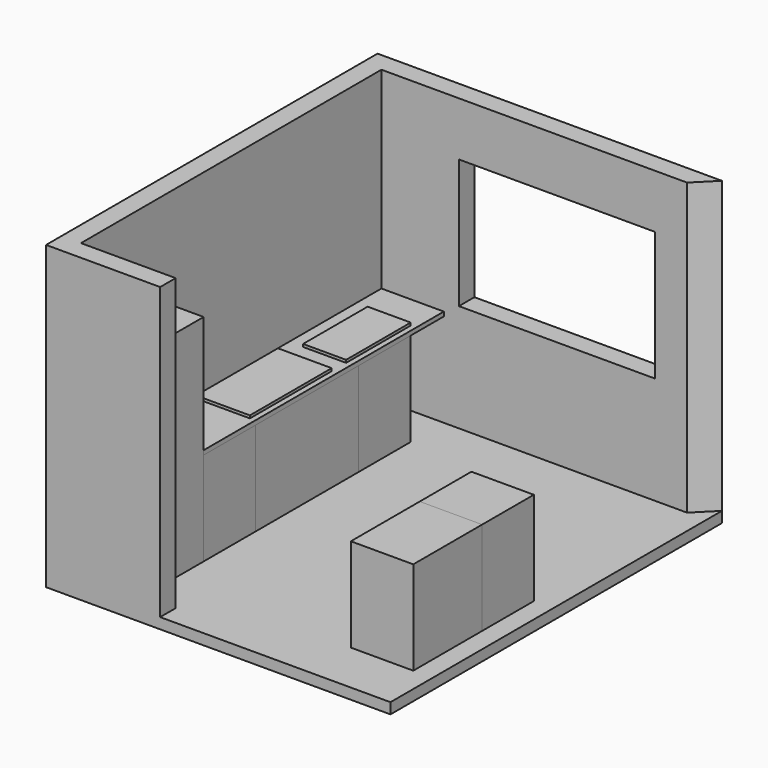
from build123d import *

# Parameters (mm, degrees)
F1_DEPTH  = 100
F2_DEPTH  = 2700
F3_W      = 580
F3_H      = 600
F4_DEPTH  = 2000
F5_DEPTH  = 870
F3_H_2    = 1200
F6_DEPTH  = 870
F7_DEPTH  = 870
F8_W      = 580
F8_H      = 990
F8_H_2    = 1200
F8_H_3    = 600
F9_DEPTH  = 40
F10_W     = 400
F10_H     = 67.5
F10_H_2   = 600
F10_H_3   = 82.5
F11_DEPTH = 25
F12_W     = 500
F12_H     = 950
F13_DEPTH = 25
F14_W     = 580
F14_H     = 800
F15_DEPTH = 870
F14_H_2   = 600
F16_DEPTH = 870
F17_W     = 1820
F17_H     = 1200
F18_DEPTH = 180.001


with BuildPart() as f1:
    # F0 (on Top) → F1 (new body)
    with BuildSketch(Plane.XY):
        Polygon((880, 0), (0, 0), (0, 3490), (2840, 3490), (3020, 3670), (-180, 3670), (-180, -180), (880, -180), align=None)
        Polygon((0, 3490), (0, 0), (880, 0), (2840, 0), (2840, 3490), align=None)
        Polygon((2840, 0), (880, 0), (880, -180), (3020, -180), (3020, 3670), (2840, 3490), align=None)
    extrude(amount=-F1_DEPTH)

    # F0 (on Top) → F2 (join)
    with BuildSketch(Plane.XY):
        Polygon((880, 0), (0, 0), (0, 3490), (2840, 3490), (3020, 3670), (-180, 3670), (-180, -180), (880, -180), align=None)
    extrude(amount=F2_DEPTH)

    # F17 (on face) → F18 (cut, through all)
    with BuildSketch(Plane.XZ.offset(-3490)):
        with Locations((1630, 1600)):
            Rectangle(F17_W, F17_H)
    extrude(amount=-F18_DEPTH, mode=Mode.SUBTRACT)


with BuildPart() as f4:
    # F3 (on face) → F4 (new body)
    with BuildSketch(Plane.XY):
        with Locations((290, 400)):
            Rectangle(F3_W, F3_H)
    extrude(amount=F4_DEPTH)


with BuildPart() as f5:
    # F3 (on face) → F5 (new body)
    with BuildSketch(Plane.XY):
        with Locations((290, 1000)):
            Rectangle(F3_W, F3_H)
    extrude(amount=F5_DEPTH)


with BuildPart() as f6:
    # F3 (on face) → F6 (new body)
    with BuildSketch(Plane.XY):
        with Locations((290, 1900)):
            Rectangle(F3_W, F3_H_2)
    extrude(amount=F6_DEPTH)


with BuildPart() as f7:
    # F3 (on face) → F7 (new body)
    with BuildSketch(Plane.XY):
        with Locations((290, 2800)):
            Rectangle(F3_W, F3_H)
    extrude(amount=F7_DEPTH)


with BuildPart() as f9:
    # F8 (on face) → F9 (new body)
    with BuildSketch(Plane.XY.offset(870)):
        with Locations((290, 2995)):
            Rectangle(F8_W, F8_H)
        with Locations((290, 1900)):
            Rectangle(F8_W, F8_H_2)
        with Locations((290, 1000)):
            Rectangle(F8_W, F8_H_3)
    extrude(amount=F9_DEPTH)


with BuildPart() as f11:
    # F10 (on face) → F11 (new body)
    with BuildSketch(Plane.XY.offset(910)):
        with Locations((330, 3133.75)):
            Rectangle(F10_W, F10_H)
        with Locations((330, 2800)):
            Rectangle(F10_W, F10_H_2)
        with Locations((330, 2458.75)):
            Rectangle(F10_W, F10_H_3)
    extrude(amount=F11_DEPTH)


with BuildPart() as f13:
    # F12 (on face) → F13 (new body)
    with BuildSketch(Plane.XY.offset(910)):
        with Locations((280, 1775)):
            Rectangle(F12_W, F12_H)
    extrude(amount=F13_DEPTH)


with BuildPart() as f15:
    # F14 (on face) → F15 (new body)
    with BuildSketch(Plane.XY):
        with Locations((2550, 710)):
            Rectangle(F14_W, F14_H)
    extrude(amount=F15_DEPTH)


with BuildPart() as f16:
    # F14 (on face) → F16 (new body)
    with BuildSketch(Plane.XY):
        with Locations((2550, 1410)):
            Rectangle(F14_W, F14_H_2)
    extrude(amount=F16_DEPTH)


solid = Compound([f1.part, f4.part, f5.part, f6.part, f7.part, f9.part, f11.part, f13.part, f15.part, f16.part])
